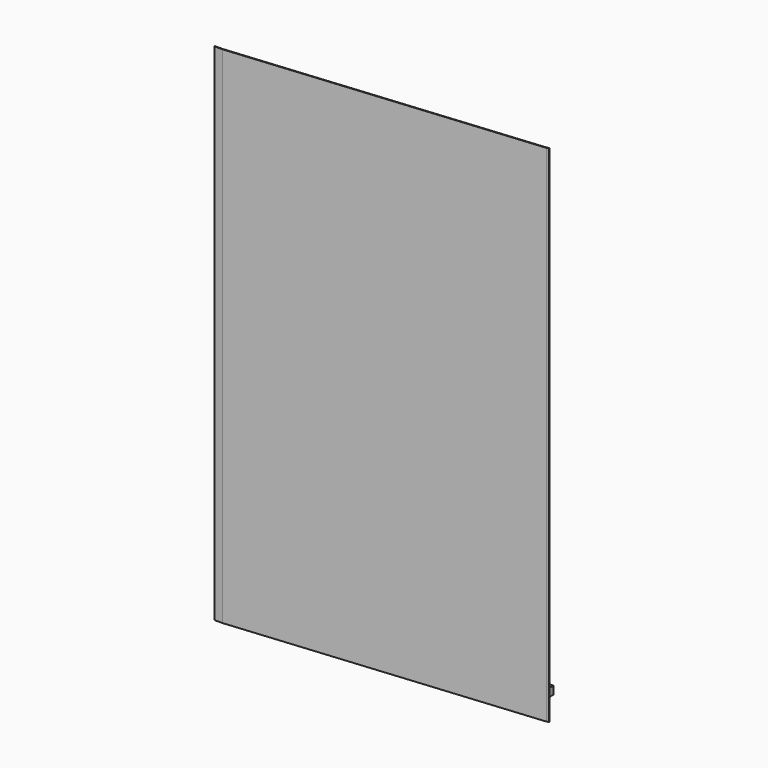
from build123d import *

# Parameters (mm, degrees)
F0_W     = 40
F0_H     = 40
F0_W_2   = 37
F0_H_2   = 37
F1_DEPTH = 150
F4_DEPTH = 40
F7_DEPTH = 2500


with BuildPart() as f1:
    # F0 (on Front) → F1 (new body)
    with BuildSketch(Plane.XZ):
        Rectangle(F0_W, F0_H)
        Rectangle(F0_W_2, F0_H_2, mode=Mode.SUBTRACT)
    extrude(amount=F1_DEPTH)


with BuildPart() as f4:
    # F3 (on offset) → F4 (new body)
    with BuildSketch(Plane.XY.offset(50)):
        Polygon((20, -110), (20, -150), (1513.620532, -11.805552), (1513.620532, 28.194448), align=None)
    extrude(amount=F4_DEPTH)


with BuildPart() as f7:
    # F6 (on offset) → F7 (new body)
    with BuildSketch(Plane.XY.offset(-50)):
        with BuildLine():
            Line((-20, -153), (20.138489, -153))
            Line((20.138489, -153), (1512.965352, -14.878984))
            ThreePointArc((1512.965352, -14.878984), (1513.873172, -14.709334), (1514.734304, -14.375613))
            Line((1514.734304, -14.375613), (1522.569582, -10.472124))
            Line((1522.569582, -10.472124), (1522.598982, -8.16266))
            Line((1522.598982, -8.16266), (1514.304619, -11.527992))
            ThreePointArc((1514.304619, -11.527992), (1513.607707, -11.752883), (1512.885421, -11.873566))
            Line((1512.885421, -11.873566), (20, -150))
            Line((20, -150), (-20, -150))
            Line((-20, -150), (-20, -153))
        make_face()
    extrude(amount=F7_DEPTH)


solid = Compound([f1.part, f4.part, f7.part])
